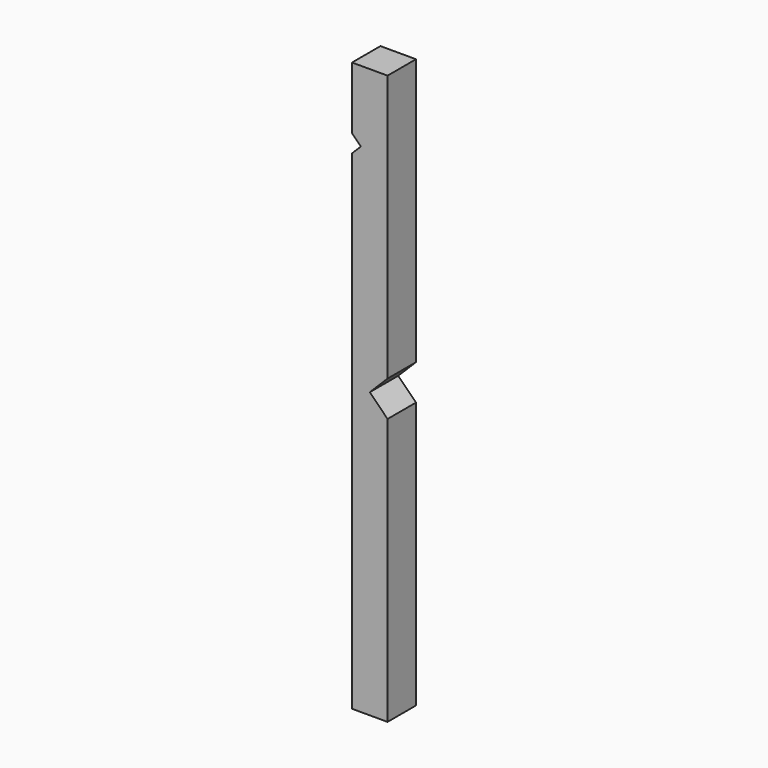
from build123d import *

# Parameters (mm, degrees)
F0_W     = 3.175
F0_H     = 50.8
F1_DEPTH = 1.5875
F3_DEPTH = 3.176
F5_DEPTH = 3.176
F7_DEPTH = 3.176


with BuildPart() as f1:
    # F0 (on Front) → F1 (new body, symmetric)
    with BuildSketch(Plane.XZ):
        Rectangle(F0_W, F0_H)
    extrude(amount=F1_DEPTH, both=True)

    # F2 (on face) → F3 (cut, through all)
    with BuildSketch(Plane.XZ.offset(1.5875)):
        Polygon((0, 0), (1.5875, 0), (1.5875, 1.5875), align=None)
    extrude(amount=-F3_DEPTH, mode=Mode.SUBTRACT)

    # F4 (on face) → F5 (cut, through all)
    with BuildSketch(Plane.XZ.offset(1.5875)):
        Polygon((1.5875, 0), (0, 0), (1.5875, -1.5875), align=None)
    extrude(amount=-F5_DEPTH, mode=Mode.SUBTRACT)

    # F6 (on face) → F7 (cut, through all)
    with BuildSketch(Plane.XZ.offset(1.5875)):
        Polygon((-1.5875, 18.25625), (-0.80074, 19.05), (-1.5875, 19.84375), align=None)
    extrude(amount=-F7_DEPTH, mode=Mode.SUBTRACT)


solid = f1.part
